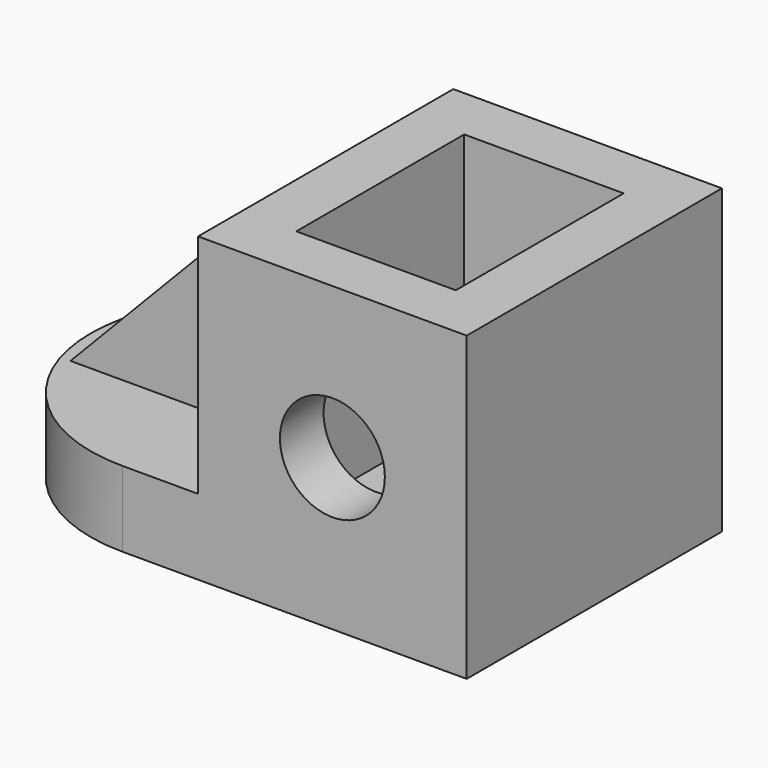
from build123d import *

# Parameters (mm, degrees)
F0_W      = 64
F0_H      = 76
F1_DEPTH  = 72
F2_T      = -13
F3_R      = 12.5
F4_DEPTH  = 100
F5_W      = 76
F5_H      = 18
F6_DEPTH  = 56
F8_DEPTH  = 25
F9_W      = 22
F9_H      = 54
F10_DEPTH = 52
F12_DEPTH = 25


with BuildPart() as f1:
    # F0 (on Top) → F1 (new body)
    with BuildSketch(Plane.XY):
        with Locations((32, 38)):
            Rectangle(F0_W, F0_H)
    extrude(amount=F1_DEPTH)

    # F2
    f2_openings = [f1.faces().sort_by_distance(p)[0] for p in [
        (32, 38, 72),
    ]]
    offset(amount=F2_T, openings=f2_openings)

    # F3 (on face) → F4 (cut)
    with BuildSketch(Plane.XZ):
        with Locations((32, 36)):
            Circle(F3_R)
    extrude(amount=-F4_DEPTH, mode=Mode.SUBTRACT)

    # F5 (on face) → F6 (join)
    with BuildSketch(Plane(origin=(0, 0, 0), x_dir=(0, -1, 0), z_dir=(-1, 0, 0))):
        with Locations((-38, 9)):
            Rectangle(F5_W, F5_H)
    extrude(amount=F6_DEPTH)

    # F7 (on face) → F8 (cut)
    with BuildSketch(Plane.XY.offset(18)):
        with BuildLine():
            ThreePointArc((-56, 38), (-44.870058, 64.870058), (-18, 76))
            Line((-18, 76), (-56, 76))
            Line((-56, 76), (-56, 38))
        make_face()
        with BuildLine():
            ThreePointArc((-18, 0), (-44.870058, 11.129942), (-56, 38))
            Line((-56, 38), (-56, 0))
            Line((-56, 0), (-18, 0))
        make_face()
    extrude(amount=-F8_DEPTH, mode=Mode.SUBTRACT)

    # F9 (on face) → F10 (join)
    with BuildSketch(Plane(origin=(0, 0, 0), x_dir=(0, -1, 0), z_dir=(-1, 0, 0))):
        with Locations((-38, 45)):
            Rectangle(F9_W, F9_H)
    extrude(amount=F10_DEPTH)

    # F11 (on face) → F12 (cut)
    with BuildSketch(Plane.XZ.offset(-27)):
        Polygon((-52, 18), (0, 72), (-52, 72), align=None)
    extrude(amount=-F12_DEPTH, mode=Mode.SUBTRACT)


solid = f1.part
